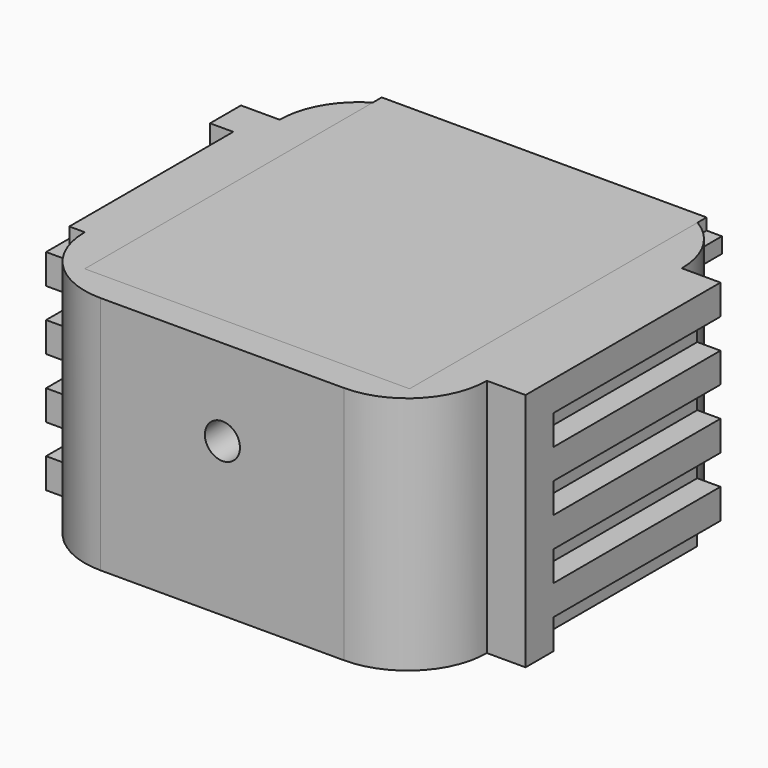
from build123d import *

# Parameters (mm, degrees)
F1_DEPTH  = 39.37
F2_DEPTH  = 6.35
F3_W      = 2.5273
F3_H      = 2.54
F4_DEPTH  = 60.96
F5_DEPTH  = 60.96
F6_W      = 40.005
F6_H      = 39.37
F7_DEPTH  = 6.35
F9_DEPTH  = 6.35
F8_W      = 3.81
F8_H      = 4.9149
F8_H_2    = 4.9276
F10_DEPTH = 34.29
F11_START = -6.35
F11_DEPTH = 41.148
F12_R     = 2.8785443145
F13_DEPTH = 8.89


with BuildPart() as f1:
    # F0 (on Top) → F1 (new body)
    with BuildSketch(Plane.XY):
        with BuildLine():
            Line((20.0025, 33.02), (-20.0025, 33.02))
            ThreePointArc((-20.0025, 33.02), (-29.2072625241, 29.2072625241), (-33.02, 20.0025))
            Line((-33.02, 20.0025), (-33.02, -20.0025))
            ThreePointArc((-33.02, -20.0025), (-29.2072625241, -29.2072625241), (-20.0025, -33.02))
            Line((-20.0025, -33.02), (20.0025, -33.02))
            ThreePointArc((20.0025, -33.02), (29.2072625241, -29.2072625241), (33.02, -20.0025))
            Line((33.02, -20.0025), (33.02, 20.0025))
            ThreePointArc((33.02, 20.0025), (29.2072625241, 29.2072625241), (20.0025, 33.02))
        make_face()
        with BuildLine():
            ThreePointArc((-26.67, 20.0025), (-24.7171344636, 24.7171344636), (-20.0025, 26.67))
            Line((-20.0025, 26.67), (20.0025, 26.67))
            ThreePointArc((20.0025, 26.67), (24.7171344636, 24.7171344636), (26.67, 20.0025))
            Line((26.67, 20.0025), (26.67, -20.0025))
            ThreePointArc((26.67, -20.0025), (24.7171344636, -24.7171344636), (20.0025, -26.67))
            Line((20.0025, -26.67), (-20.0025, -26.67))
            ThreePointArc((-20.0025, -26.67), (-24.7171344636, -24.7171344636), (-26.67, -20.0025))
            Line((-26.67, -20.0025), (-26.67, 20.0025))
        make_face(mode=Mode.SUBTRACT)
    extrude(amount=F1_DEPTH)

    # F0 (on Top) → F2 (join)
    with BuildSketch(Plane.XY):
        with BuildLine():
            Line((20.0025, 26.67), (-20.0025, 26.67))
            ThreePointArc((-20.0025, 26.67), (-24.7171344636, 24.7171344636), (-26.67, 20.0025))
            Line((-26.67, 20.0025), (-26.67, -20.0025))
            ThreePointArc((-26.67, -20.0025), (-24.7171344636, -24.7171344636), (-20.0025, -26.67))
            Line((-20.0025, -26.67), (20.0025, -26.67))
            ThreePointArc((20.0025, -26.67), (24.7171344636, -24.7171344636), (26.67, -20.0025))
            Line((26.67, -20.0025), (26.67, 20.0025))
            ThreePointArc((26.67, 20.0025), (24.7171344636, 24.7171344636), (20.0025, 26.67))
        make_face()
    extrude(amount=F2_DEPTH)

    # F3 (on face) → F4 (cut)
    with BuildSketch(Plane(origin=(0, 33.02, 0), x_dir=(-1, 0, 0), z_dir=(0, 1, 0))):
        with Locations((-27.93365, 36.195)):
            Rectangle(F3_W, F3_H)
        with Locations((27.93365, 36.195)):
            Rectangle(F3_W, F3_H)
        Polygon((20.0025, 39.37), (0, 39.37), (-20.0025, 39.37), (-20.0025, 33.02), (20.0025, 33.02), align=None)
        Polygon((-20.0025, 33.02), (-20.0025, 39.37), (-26.67, 39.37), (-26.67, 37.465), (-26.67, 34.925), (-26.67, 33.02), align=None)
        Polygon((26.67, 39.37), (20.0025, 39.37), (20.0025, 33.02), (26.67, 33.02), (26.67, 34.925), (26.67, 37.465), align=None)
    extrude(amount=-F4_DEPTH, mode=Mode.SUBTRACT)

    # F6 (on face) → F7 (join)
    with BuildSketch(Plane.YZ.offset(33.02)):
        with Locations((0, 19.685)):
            Rectangle(F6_W, F6_H)
    extrude(amount=F7_DEPTH)

    # F9 (add): a face of the model
    f9_faces = [f1.faces().sort_by_distance(p)[0] for p in [
        (-33.02, 0, 19.685),
    ]]
    extrude(f9_faces, amount=F9_DEPTH)

    # F8 (on face) → F10 (cut)
    with BuildSketch(Plane(origin=(0, 20.0025, 0), x_dir=(-1, 0, 0), z_dir=(0, 1, 0))):
        with Locations((-37.465, 31.98495)):
            Rectangle(F8_W, F8_H)
        with Locations((-37.465, 22.1488)):
            Rectangle(F8_W, F8_H_2)
        with Locations((-37.465, 12.29995)):
            Rectangle(F8_W, F8_H)
        with Locations((-37.465, 2.4638)):
            Rectangle(F8_W, F8_H_2)
    extrude(amount=-F10_DEPTH, mode=Mode.SUBTRACT)

    # F8 (on face) → F11 (cut)
    with BuildSketch(Plane(origin=(0, 20.0025, 0), x_dir=(-1, 0, 0), z_dir=(0, 1, 0)).offset(F11_START)):
        with Locations((37.465, 36.9062)):
            Rectangle(F8_W, F8_H_2)
        with Locations((37.465, 27.07005)):
            Rectangle(F8_W, F8_H)
        with Locations((37.465, 17.2212)):
            Rectangle(F8_W, F8_H_2)
        with Locations((37.465, 7.38505)):
            Rectangle(F8_W, F8_H)
    extrude(amount=-F11_DEPTH, mode=Mode.SUBTRACT)

    # F12 (on face) → F13 (cut)
    with BuildSketch(Plane.XZ.offset(33.02)):
        with Locations((0, 25.1943469048)):
            Circle(F12_R)
    extrude(amount=-F13_DEPTH, mode=Mode.SUBTRACT)


with BuildPart() as f5:
    # F3 (on face) → F5 (new body)
    with BuildSketch(Plane(origin=(0, 33.02, 0), x_dir=(-1, 0, 0), z_dir=(0, 1, 0))):
        with Locations((27.93365, 36.195)):
            Rectangle(F3_W, F3_H)
        Polygon((20.0025, 39.37), (0, 39.37), (-20.0025, 39.37), (-20.0025, 33.02), (20.0025, 33.02), align=None)
        Polygon((26.67, 39.37), (20.0025, 39.37), (20.0025, 33.02), (26.67, 33.02), (26.67, 34.925), (26.67, 37.465), align=None)
        Polygon((-20.0025, 33.02), (-20.0025, 39.37), (-26.67, 39.37), (-26.67, 37.465), (-26.67, 34.925), (-26.67, 33.02), align=None)
        with Locations((-27.93365, 36.195)):
            Rectangle(F3_W, F3_H)
    extrude(amount=-F5_DEPTH)


solid = Compound([f1.part, f5.part])
